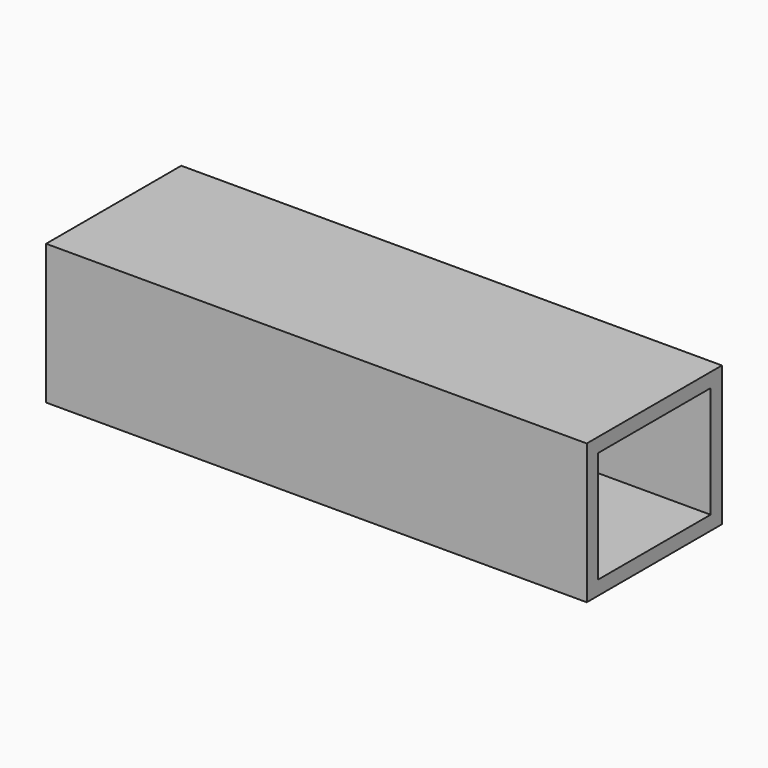
from build123d import *

# Parameters (mm, degrees)
F0_W     = 80
F0_H     = 20.69
F1_DEPTH = 25
F2_T     = -2.1


with BuildPart() as f1:
    # F0 (on Front) → F1 (new body)
    with BuildSketch(Plane.XZ):
        with Locations((-29.262293, -48.201394)):
            Rectangle(F0_W, F0_H)
    extrude(amount=-F1_DEPTH)

    # F2
    f2_openings = [f1.faces().sort_by_distance(p)[0] for p in [
        (10.737707, 12.5, -48.201394),
        (-69.262293, 12.5, -48.201394),
    ]]
    offset(amount=F2_T, openings=f2_openings)


solid = f1.part
